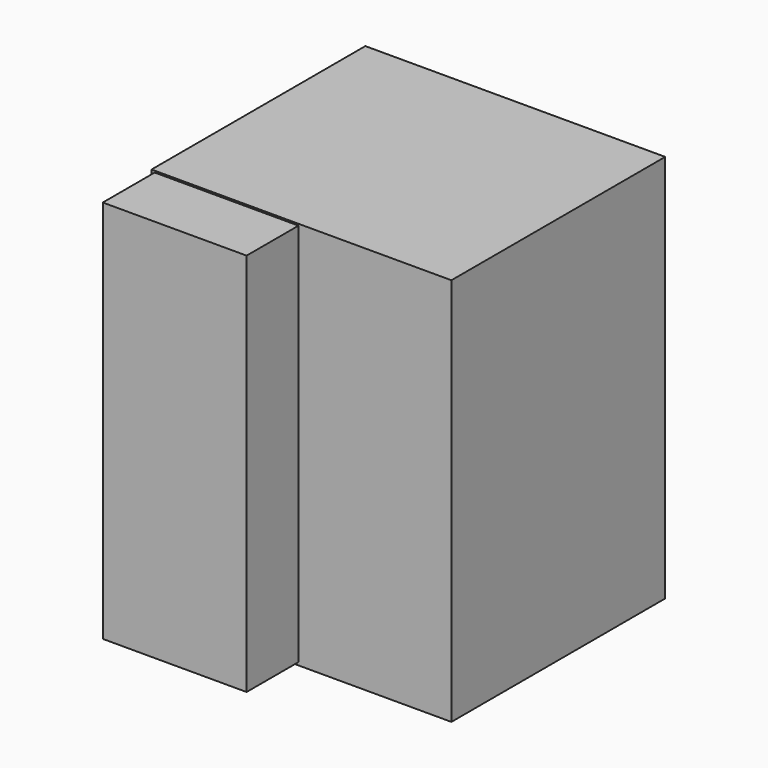
from build123d import *

# Parameters (mm, degrees)
F0_W     = 117.424745
F0_H     = 152.249247
F1_DEPTH = 52.324
F3_W     = 56.306338
F3_H     = 150.43898
F4_DEPTH = 25.4


with BuildPart() as f1:
    # F0 (on Front) → F1 (new body, symmetric)
    with BuildSketch(Plane.XZ):
        with Locations((-2.734157, 0.575609)):
            Rectangle(F0_W, F0_H)
    extrude(amount=F1_DEPTH, both=True)

    # F3 (on face) → F4 (join)
    with BuildSketch(Plane.XZ.offset(52.324)):
        with Locations((-32.0513, 0.827618)):
            Rectangle(F3_W, F3_H)
    extrude(amount=F4_DEPTH)


solid = f1.part
